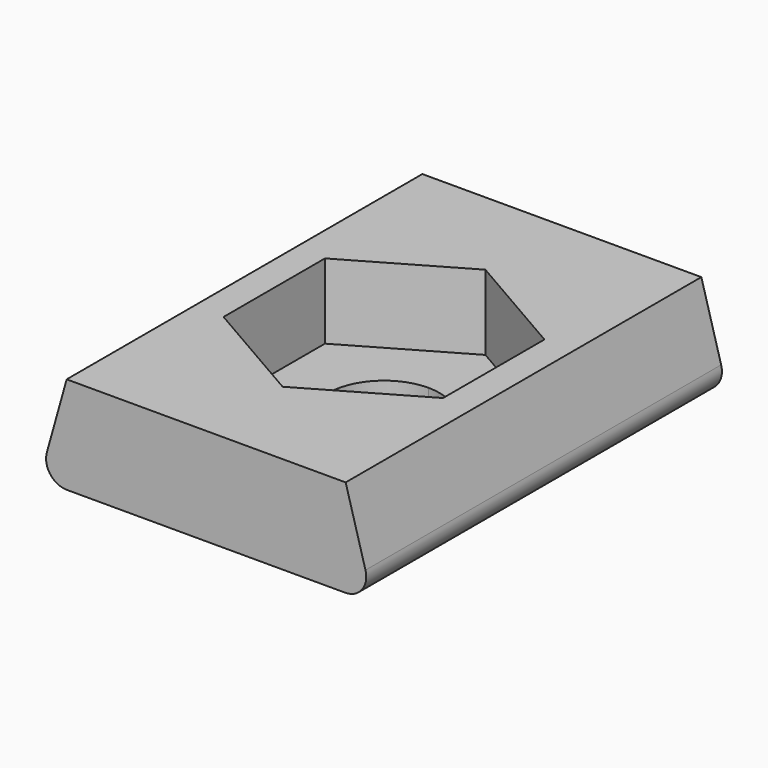
from build123d import *

# Parameters (mm, degrees)
F0_W     = 9.2
F0_H     = 5
F1_DEPTH = 8
F3_R     = 0.75
F6_DEPTH = 30
F7_DEPTH = 4.2
F8_DEPTH = 25


with BuildPart() as f1:
    # F0 (on Front) → F1 (new body, symmetric)
    with BuildSketch(Plane.XZ):
        Polygon((-6, -2.5), (-4.6, -2.5), (-4.6, 2.5), align=None)
        Rectangle(F0_W, F0_H)
        Polygon((4.6, -2.5), (6, -2.5), (4.6, 2.5), align=None)
    extrude(amount=F1_DEPTH, both=True)

    # F3
    f3_edges = [f1.edges().sort_by_distance(p)[0] for p in [
        (-4.6, 0, 2.5),
        (4.6, 0, 2.5),
        (6, 0, -2.5),
        (-6, 0, -2.5),
    ]]
    fillet(f3_edges, radius=F3_R)

    # F5 (on face) → F6 (cut)
    with BuildSketch(Plane.XZ.offset(8)):
        with BuildLine():
            Line((7.368007, 1), (7.368007, 4))
            Line((7.368007, 4), (-7.368007, 4))
            Line((-7.368007, 4), (-7.368007, 1))
            Line((-7.368007, 1), (-5.02, 1))
            Line((-5.02, 1), (-4.753378, 1.952222))
            ThreePointArc((-4.753378, 1.952222), (-4.484384, 2.347565), (-4.031155, 2.5))
            Line((-4.031155, 2.5), (4.031155, 2.5))
            ThreePointArc((4.031155, 2.5), (4.484384, 2.347565), (4.753378, 1.952222))
            Line((4.753378, 1.952222), (5.02, 1))
            Line((5.02, 1), (7.368007, 1))
        make_face()
        with BuildLine():
            Line((-5.02, 1), (5.02, 1))
            Line((5.02, 1), (4.753378, 1.952222))
            ThreePointArc((4.753378, 1.952222), (4.484384, 2.347565), (4.031155, 2.5))
            Line((4.031155, 2.5), (-4.031155, 2.5))
            ThreePointArc((-4.031155, 2.5), (-4.484384, 2.347565), (-4.753378, 1.952222))
            Line((-4.753378, 1.952222), (-5.02, 1))
        make_face()
    extrude(amount=-F6_DEPTH, mode=Mode.SUBTRACT)

    # F4 (on face) → F7 (cut)
    with BuildSketch(Plane.XY.offset(2.5)):
        Polygon((3.95, -2.280534), (3.95, 2.280534), (0, 4.561067), (-3.95, 2.280534), (-3.95, -2.280534), (0, -4.561067), align=None)
    extrude(amount=-F7_DEPTH, mode=Mode.SUBTRACT)

    # F2 (on face) → F8 (cut)
    with BuildSketch(Plane(origin=(0, 0, -2.5), x_dir=(1, 0, 0), z_dir=(0, 0, -1))):
        with BuildLine():
            Line((0, -2), (0, 0))
            Line((0, 0), (0, 2))
            ThreePointArc((0, 2), (-2, 0), (0, -2))
        make_face()
        with BuildLine():
            Line((0, 2), (0, 0))
            Line((0, 0), (0, -2))
            ThreePointArc((0, -2), (1.414214, -1.414214), (2, 0))
            ThreePointArc((2, 0), (1.414214, 1.414214), (0, 2))
        make_face()
    extrude(amount=-F8_DEPTH, mode=Mode.SUBTRACT)


solid = f1.part
